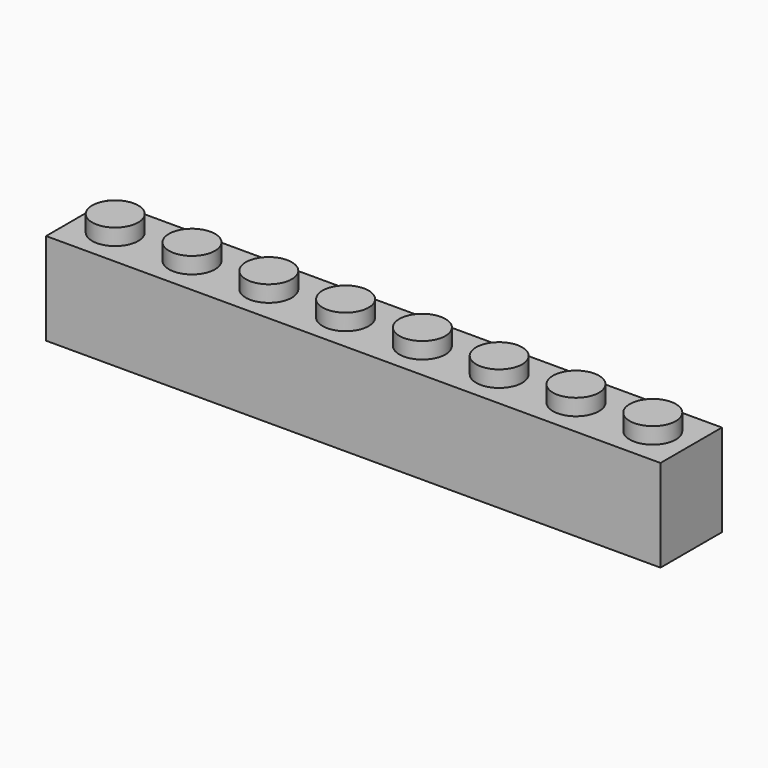
from build123d import *

# Parameters (mm, degrees)
F1_DEPTH = 8
F3_W     = 8
F3_H     = 8
F3_R     = 2.4
F4_DEPTH = 1.7
F5_R     = 2.4
F6_DEPTH = 1.7


with BuildPart() as f1:
    # F0 (on Front) → F1 (new body)
    with BuildSketch(Plane.XZ):
        Polygon((-2.4, 9.6), (-4, 9.6), (-4, 0), (4, 0), (4, 9.6), (2.4, 9.6), (2.4, 11.3), (-2.4, 11.3), align=None)
    extrude(amount=F1_DEPTH)

    # F3 (on plane+point) → F4 (cut, through all)
    with BuildSketch(Plane.XY.offset(11.3)):
        with Locations((0, -4)):
            Rectangle(F3_W, F3_H)
        with Locations((0, -4)):
            Circle(F3_R, mode=Mode.SUBTRACT)
    extrude(amount=-F4_DEPTH, mode=Mode.SUBTRACT)

    # F5 (on Top) → F6 (cut)
    with BuildSketch(Plane.XY):
        with Locations((0, -4)):
            Circle(F5_R)
    extrude(amount=F6_DEPTH, mode=Mode.SUBTRACT)

    # F8: F1 across plane


with BuildPart() as f1_1:
    add(f1.part)
    add(f1.part.mirror(Plane.YZ.offset(4)))

    # F10: F1 across plane


with BuildPart() as f1_2:
    add(f1_1.part)
    add(f1_1.part.mirror(Plane.YZ.offset(12)))

    # F12: F1 across plane


with BuildPart() as f1_3:
    add(f1_2.part)
    add(f1_2.part.mirror(Plane.YZ.offset(28)))


solid = f1_3.part
